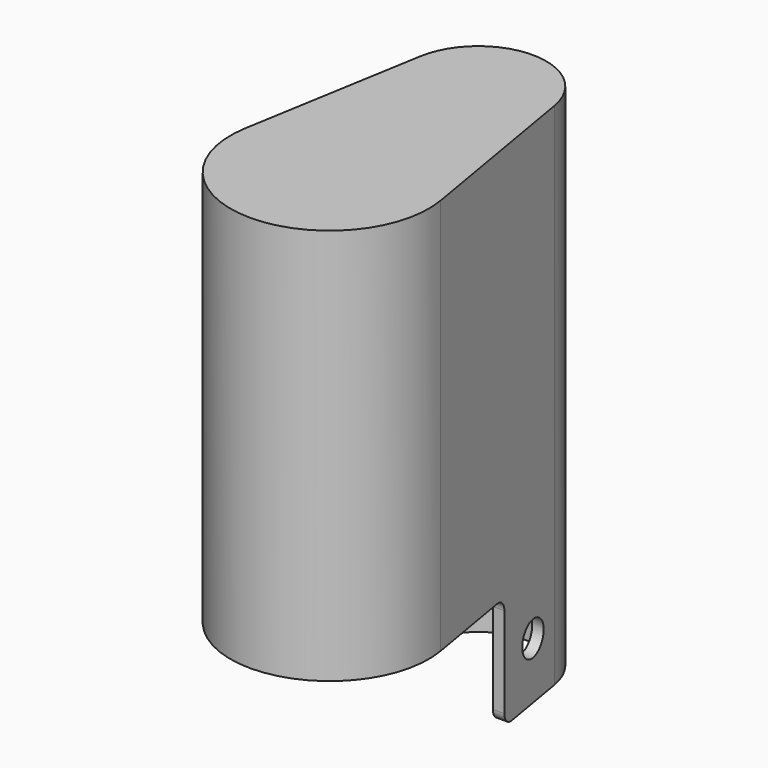
from build123d import *

# Parameters (mm, degrees)
F1_DEPTH = 57.15
F2_T     = -1.27
F3_W     = 24.3205
F3_H     = 12.7
F3_R     = 1.905
F4_DEPTH = 24.8444639078
F5_R     = 1.27


with BuildPart() as f1:
    # F0 (on Top) → F1 (new body)
    with BuildSketch(Plane.XY):
        with BuildLine():
            Line((6.2188556471, 34.2943200643), (2.7758060277, 14.0519526863))
            ThreePointArc((2.7758060277, 14.0519526863), (13.7309639078, 1.0760761619), (24.6861217879, 14.0519526863))
            Line((24.6861217879, 14.0519526863), (21.2430721684, 34.2943200643))
            ThreePointArc((21.2430721684, 34.2943200643), (13.7309639078, 40.6365761619), (6.2188556471, 34.2943200643))
        make_face()
    extrude(amount=F1_DEPTH)

    # F2
    f2_openings = [f1.faces().sort_by_distance(p)[0] for p in [
        (13.730964, 19.748404, 0),
    ]]
    offset(amount=F2_T, openings=f2_openings)

    # F3 (on Right) → F4 (cut, through all)
    with BuildSketch(Plane.YZ):
        with Locations((13.2363261619, 6.35)):
            Rectangle(F3_W, F3_H)
        with Locations((30.4765761619, 6.35)):
            Circle(F3_R)
    extrude(amount=F4_DEPTH, mode=Mode.SUBTRACT)

    # F5
    f5_edges = [f1.edges().sort_by_distance(p)[0] for p in [
        (5.349547, 25.396576, 12.7),
        (22.11238, 25.396576, 12.7),
        (5.349547, 25.396576, 0),
        (22.11238, 25.396576, 0),
        (13.730964, 2.346076, 55.88),
        (21.712579, 23.960179, 55.88),
        (13.730964, 39.366576, 55.88),
        (5.749349, 23.960179, 55.88),
    ]]
    fillet(f5_edges, radius=F5_R)


solid = f1.part
